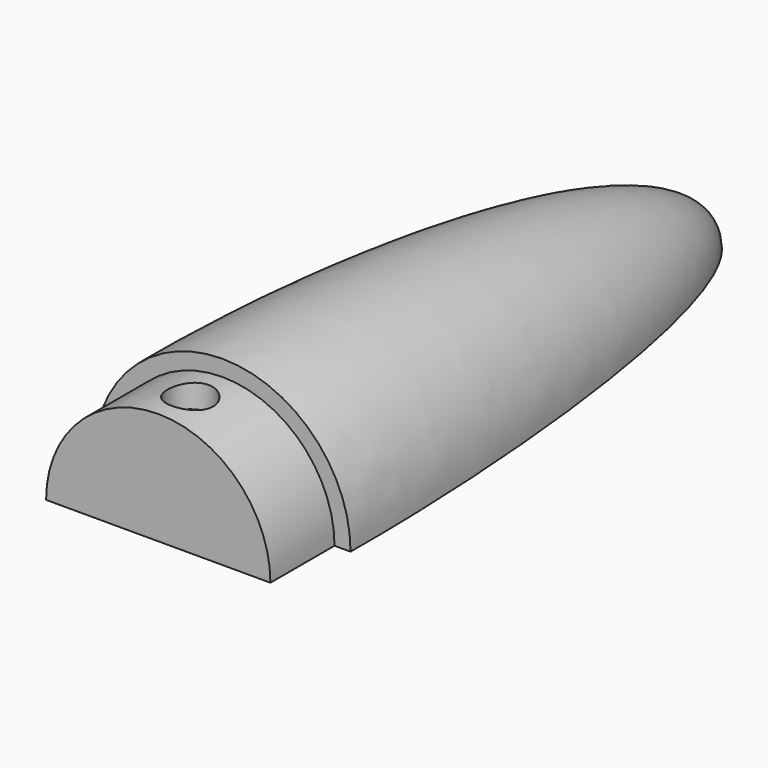
from build123d import *

# Parameters (mm, degrees)
F0_W     = 8.5
F0_H     = 10
F2_ANGLE = 180
F3_DEPTH = 55
F4_DEPTH = 10
F7_DEPTH = 25
F8_DEPTH = 3


with BuildPart() as f2:
    # F0 (on Top) → F2 (revolve)
    with BuildSketch(Plane.XY):
        with BuildLine():
            Line((0, 85), (0, 45))
            Line((0, 45), (5.5, 45))
            Line((5.5, 45), (5.5, 10))
            Line((5.5, 10), (14, 10))
            Line((14, 10), (16, 10))
            add(Edge.make_bspline(
                [(0, 85), (11.4376060665, 85.1000958681), (16.2615635544, 37.3789982498), (16, 10)],
                knots=[0, 0, 0, 0, 76.6876782802, 76.6876782802, 76.6876782802, 76.6876782802], degree=3))
        make_face()
        with Locations((9.75, 5)):
            Rectangle(F0_W, F0_H)
        with Locations((9.75, 5)):
            Rectangle(F0_W, F0_H)
        with BuildLine():
            Line((0, 85), (0, 45))
            Line((0, 45), (5.5, 45))
            Line((5.5, 45), (5.5, 10))
            Line((5.5, 10), (14, 10))
            Line((14, 10), (16, 10))
            add(Edge.make_bspline(
                [(0, 85), (11.4376060665, 85.1000958681), (16.2615635544, 37.3789982498), (16, 10)],
                knots=[0, 0, 0, 0, 76.6876782802, 76.6876782802, 76.6876782802, 76.6876782802], degree=3))
        make_face()
    revolve(axis=Axis((0, 47.5, 0), (0, -1, 0)), revolution_arc=F2_ANGLE)

    # F1 (on Front) → F3 (cut)
    with BuildSketch(Plane.XZ):
        with BuildLine():
            Line((0, 5.5), (0, 0))
            ThreePointArc((0, 0), (3.8890872965, 1.6109127035), (5.5, 5.5))
            Line((5.5, 5.5), (0, 5.5))
        make_face()
        with BuildLine():
            ThreePointArc((5.5, 5.5), (3.8890872965, 1.6109127035), (0, 0))
            Line((0, 0), (5.5, 0))
            Line((5.5, 0), (5.5, 5.5))
        make_face()
        with BuildLine():
            Line((-5.5, 0), (0, 0))
            ThreePointArc((0, 0), (-3.8890872965, 1.6109127035), (-5.5, 5.5))
            Line((-5.5, 5.5), (-5.5, 0))
        make_face()
        with BuildLine():
            ThreePointArc((-5.5, 5.5), (-3.8890872965, 1.6109127035), (0, 0))
            Line((0, 0), (0, 5.5))
            Line((0, 5.5), (-5.5, 5.5))
        make_face()
        with BuildLine():
            Line((-5.5, 5.5), (0, 5.5))
            Line((0, 5.5), (0, 11))
            ThreePointArc((0, 11), (-3.8890872965, 9.3890872965), (-5.5, 5.5))
        make_face()
        with BuildLine():
            Line((0, 11), (0, 5.5))
            Line((0, 5.5), (5.5, 5.5))
            ThreePointArc((5.5, 5.5), (3.8890872965, 9.3890872965), (0, 11))
        make_face()
    extrude(amount=-F3_DEPTH, mode=Mode.SUBTRACT)

    # F1 (on Front) → F4 (join)
    with BuildSketch(Plane.XZ):
        with BuildLine():
            ThreePointArc((5.5, 5.5), (3.8890872965, 1.6109127035), (0, 0))
            Line((0, 0), (5.5, 0))
            Line((5.5, 0), (5.5, 5.5))
        make_face()
        with BuildLine():
            Line((0, 5.5), (0, 0))
            ThreePointArc((0, 0), (3.8890872965, 1.6109127035), (5.5, 5.5))
            Line((5.5, 5.5), (0, 5.5))
        make_face()
        with BuildLine():
            Line((0, 11), (0, 5.5))
            Line((0, 5.5), (5.5, 5.5))
            ThreePointArc((5.5, 5.5), (3.8890872965, 9.3890872965), (0, 11))
        make_face()
        with BuildLine():
            Line((-5.5, 5.5), (0, 5.5))
            Line((0, 5.5), (0, 11))
            ThreePointArc((0, 11), (-3.8890872965, 9.3890872965), (-5.5, 5.5))
        make_face()
        with BuildLine():
            ThreePointArc((-5.5, 5.5), (-3.8890872965, 1.6109127035), (0, 0))
            Line((0, 0), (0, 5.5))
            Line((0, 5.5), (-5.5, 5.5))
        make_face()
        with BuildLine():
            Line((-5.5, 0), (0, 0))
            ThreePointArc((0, 0), (-3.8890872965, 1.6109127035), (-5.5, 5.5))
            Line((-5.5, 5.5), (-5.5, 0))
        make_face()
    extrude(amount=-F4_DEPTH)

    # F6 (on offset) → F7 (cut)
    with BuildSketch(Plane(origin=(0, 0, 14), x_dir=(1, 0, 0), z_dir=(0, 0, -1))):
        with BuildLine():
            Line((0, -3.35), (0, -5))
            Line((0, -5), (0, -6.65))
            ThreePointArc((0, -6.65), (1.166726189, -6.166726189), (1.65, -5))
            ThreePointArc((1.65, -5), (1.166726189, -3.833273811), (0, -3.35))
        make_face()
        with BuildLine():
            ThreePointArc((0, -3.35), (-1.166726189, -3.833273811), (-1.65, -5))
            Line((-1.65, -5), (0, -5))
            Line((0, -5), (0, -3.35))
        make_face()
        with BuildLine():
            Line((0, -5), (-1.65, -5))
            ThreePointArc((-1.65, -5), (-1.166726189, -6.166726189), (0, -6.65))
            Line((0, -6.65), (0, -5))
        make_face()
    extrude(amount=F7_DEPTH, mode=Mode.SUBTRACT)

    # F6 (on offset) → F8 (cut)
    with BuildSketch(Plane(origin=(0, 0, 14), x_dir=(1, 0, 0), z_dir=(0, 0, -1))):
        with BuildLine():
            ThreePointArc((2.85, -5), (0, -2.15), (-2.85, -5))
            ThreePointArc((-2.85, -5), (0, -7.85), (2.85, -5))
        make_face()
        with BuildLine():
            ThreePointArc((0, -6.65), (-1.166726189, -6.166726189), (-1.65, -5))
            ThreePointArc((-1.65, -5), (-1.166726189, -3.833273811), (0, -3.35))
            ThreePointArc((0, -3.35), (1.166726189, -3.833273811), (1.65, -5))
            ThreePointArc((1.65, -5), (1.166726189, -6.166726189), (0, -6.65))
        make_face(mode=Mode.SUBTRACT)
    extrude(amount=F8_DEPTH, mode=Mode.SUBTRACT)


solid = f2.part
